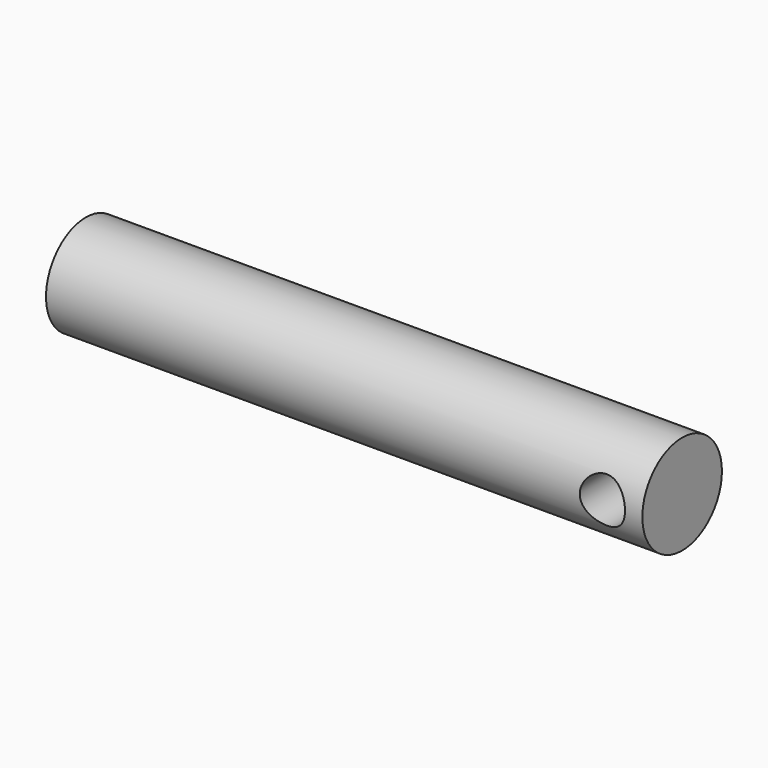
from build123d import *

# Parameters (mm, degrees)
F0_R     = 14.2875
F1_DEPTH = 171.323
F2_R     = 6.4897
F3_DEPTH = 25.4


with BuildPart() as f1:
    # F0 (on Right) → F1 (new body)
    with BuildSketch(Plane.YZ):
        Circle(F0_R)
    extrude(amount=F1_DEPTH)

    # F2 (on Front) → F3 (cut, symmetric)
    with BuildSketch(Plane.XZ):
        with Locations((159.8422, 0)):
            Circle(F2_R)
    extrude(amount=F3_DEPTH, both=True, mode=Mode.SUBTRACT)


solid = f1.part
